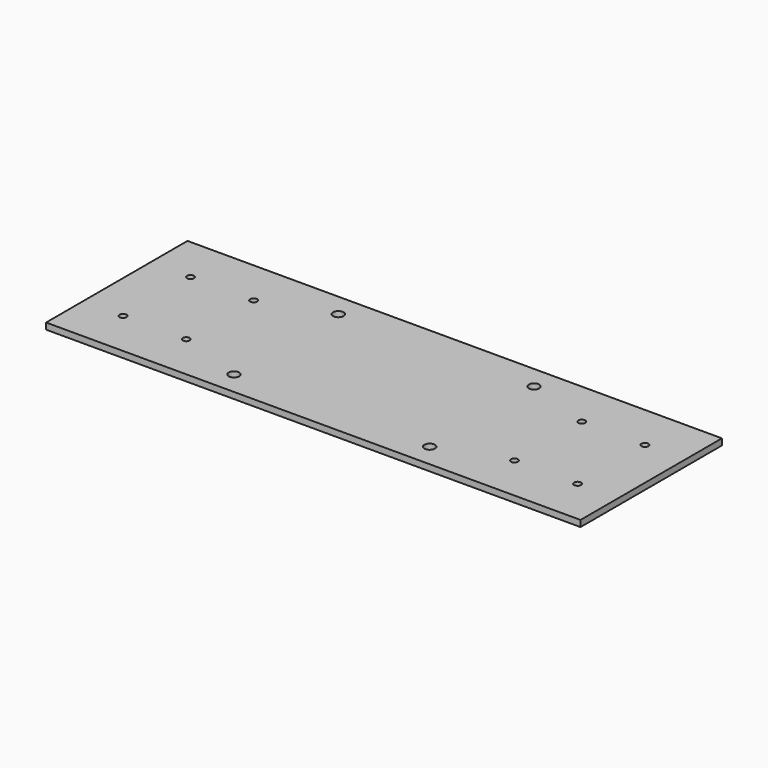
from build123d import *

# Parameters (mm, degrees)
F0_W     = 254
F0_H     = 84
F0_R     = 2.5
F0_R_2   = 1.65
F1_DEPTH = 3


with BuildPart() as f1:
    # F0 (on Top) → F1 (new body)
    with BuildSketch(Plane.XY):
        with Locations((127, -42)):
            Rectangle(F0_W, F0_H)
        with Locations((80.5, -73)):
            Circle(F0_R, mode=Mode.SUBTRACT)
        with Locations((19, -62)):
            Circle(F0_R_2, mode=Mode.SUBTRACT)
        with Locations((49, -62)):
            Circle(F0_R_2, mode=Mode.SUBTRACT)
        with Locations((173.5, -73)):
            Circle(F0_R, mode=Mode.SUBTRACT)
        with Locations((205, -62)):
            Circle(F0_R_2, mode=Mode.SUBTRACT)
        with Locations((235, -62)):
            Circle(F0_R_2, mode=Mode.SUBTRACT)
        with Locations((19, -22)):
            Circle(F0_R_2, mode=Mode.SUBTRACT)
        with Locations((49, -22)):
            Circle(F0_R_2, mode=Mode.SUBTRACT)
        with Locations((80.5, -11)):
            Circle(F0_R, mode=Mode.SUBTRACT)
        with Locations((205, -22)):
            Circle(F0_R_2, mode=Mode.SUBTRACT)
        with Locations((235, -22)):
            Circle(F0_R_2, mode=Mode.SUBTRACT)
        with Locations((173.5, -11)):
            Circle(F0_R, mode=Mode.SUBTRACT)
    extrude(amount=F1_DEPTH)


solid = f1.part
